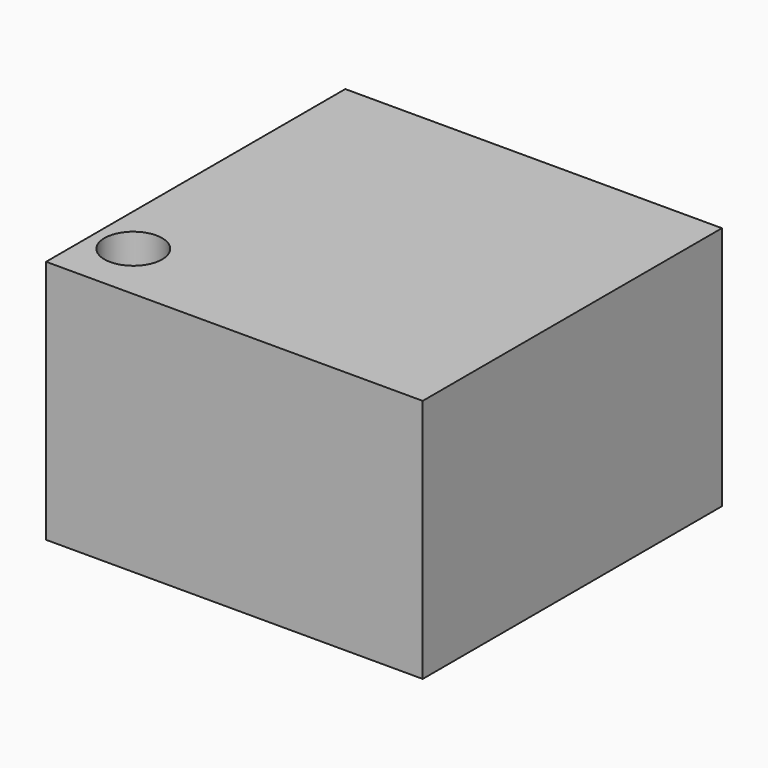
from build123d import *

# Parameters (mm, degrees)
F0_W     = 76.734344
F0_H     = 49.875418
F1_DEPTH = 76.2
F2_R     = 5.879825
F3_DEPTH = 50.8


with BuildPart() as f1:
    # F0 (on Front) → F1 (new body)
    with BuildSketch(Plane.XZ):
        with Locations((-17.182841, -4.724878)):
            Rectangle(F0_W, F0_H)
    extrude(amount=-F1_DEPTH)

    # F2 (on face) → F3 (cut)
    with BuildSketch(Plane.XY.offset(20.212831)):
        with Locations((-47.513243, 12.172232)):
            Circle(F2_R)
    extrude(amount=-F3_DEPTH, mode=Mode.SUBTRACT)


solid = f1.part
